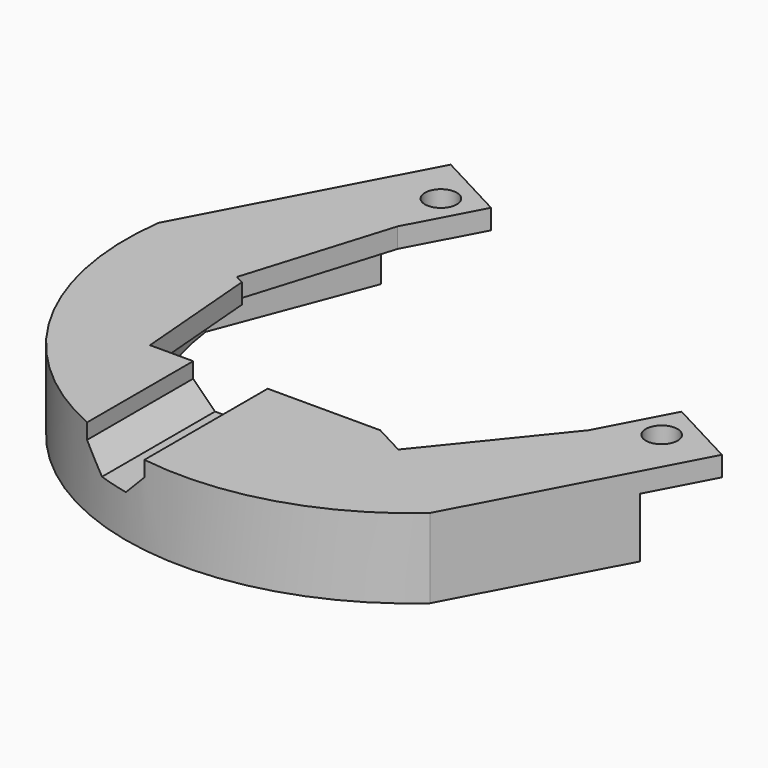
from build123d import *

# Parameters (mm, degrees)
SKETCH_R             = 1.6
PAD_DEPTH            = 8
POCKET_DEPTH         = 6
SKETCH001_W          = 18
SKETCH001_H          = 10
PAD001_DEPTH         = 8
POCKET001_DEPTH      = 34
POCKET001_DEPTH_BACK = 12
POCKET002_DEPTH      = 8.001


with BuildPart() as part:
    # Sketch → Pad (new body)
    with BuildSketch(Plane(origin=(0, 0, 34.387781), x_dir=(-1, 0, 0), z_dir=(0, 0, 1))):
        with BuildLine():
            Line((-25.159705, 9.979942), (-13.422916, 32.053632))
            ThreePointArc((34.079665, 6.796062), (19.106838, 35.934736), (-13.422916, 32.053632))
            Line((34.079665, 6.796062), (22.342876, -15.277628))
            Line((22.342876, -15.277628), (15.279295, -11.521855))
            Line((15.279295, -11.521855), (19.035067, -4.458275))
            Line((19.035067, -4.458275), (23.516593, 10.147407))
            Line((23.516593, 10.147407), (-4.73773, 25.170497))
            Line((-14.340352, 13.287751), (-4.73773, 25.170497))
            Line((-18.096124, 6.22417), (-14.340352, 13.287751))
            Line((-18.096124, 6.22417), (-25.159705, 9.979942))
        make_face()
        with Locations((-19.336552, 10.281427)):
            Circle(SKETCH_R, mode=Mode.SUBTRACT)
        with Locations((19.336552, -10.281427)):
            Circle(SKETCH_R, mode=Mode.SUBTRACT)
    extrude(amount=PAD_DEPTH)

    # Sketch004 → Pocket (cut)
    with BuildSketch(Plane(origin=(0, 0, 34.387781), x_dir=(-1, 0, 0), z_dir=(0, 0, -1))):
        with BuildLine():
            ThreePointArc((-10.535805, -28.111259), (14.805415, -27.844935), (29.196837, -6.985039))
            Line((23.510102, 7.970263), (29.196837, -6.985039))
            Line((23.510102, 7.970263), (33.765539, 13.423175))
            Line((33.765539, 13.423175), (24.376107, 31.082127))
            Line((24.376107, 31.082127), (-39.399197, -2.827804))
            Line((-39.399197, -2.827804), (-30.009766, -20.486756))
            Line((-30.009766, -20.486756), (-19.75433, -15.033844))
            Line((-19.75433, -15.033844), (-10.535805, -28.111259))
        make_face()
    extrude(amount=-POCKET_DEPTH, mode=Mode.SUBTRACT)

    # Sketch001 (on Face13 of Pad) → Pad001 (join)
    with BuildSketch(Plane(origin=(0, 0, 34.387781), x_dir=(-1, 0, 0), z_dir=(0, 0, -1))):
        with Locations((14, -27)):
            Rectangle(SKETCH001_W, SKETCH001_H)
    extrude(amount=-PAD001_DEPTH)

    # Sketch006 (on Face16 of Pad001) → Pocket001 (cut, two sides)
    with BuildSketch(Plane(origin=(0, -22, 34.387781), x_dir=(-1, 0, 0), z_dir=(0, 1, 0))) as pocket001_sk:
        Polygon((11.946699, 4.25), (15.053301, 4.25), (17.25, 6.446699), (17.25, 9.446699), (9.75, 9.446699), (9.75, 6.446699), align=None)
    extrude(amount=-POCKET001_DEPTH, mode=Mode.SUBTRACT)
    extrude(pocket001_sk.sketch, amount=POCKET001_DEPTH_BACK, mode=Mode.SUBTRACT)

    # Sketch007 (on Face29 of Pocket001) → Pocket002 (cut, through all)
    with BuildSketch(Plane(origin=(0, 0, 42.387781), x_dir=(-1, 0, 0), z_dir=(0, 0, 1))):
        Polygon((-3.522127, 23.490412), (21.597948, 23.490412), (22.751427, 9.520575), align=None)
    extrude(amount=-POCKET002_DEPTH, mode=Mode.SUBTRACT)


solid = part.part
